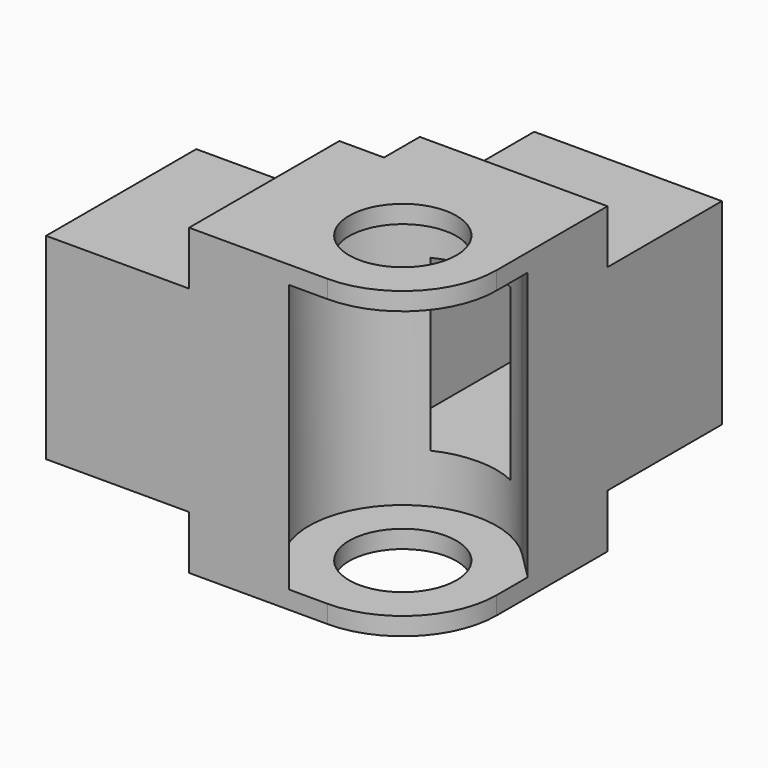
from build123d import *

# Parameters (mm, degrees)
F0_W      = 42
F0_H      = 42
F1_DEPTH  = 22
F2_W      = 21
F2_H      = 21
F3_DEPTH  = 22
F4_R      = 6
F5_DEPTH  = 22
F6_R      = 4
F7_DEPTH  = 18
F8_W      = 19
F8_H      = 19
F9_DEPTH  = 22
F10_W     = 21
F10_H     = 21
F10_R     = 6
F10_H_2   = 5
F10_W_2   = 5
F11_DEPTH = 6
F12_W     = 21
F12_H     = 21
F12_R     = 6
F12_W_2   = 5
F12_H_2   = 5
F13_DEPTH = 6
F15_R     = 6
F16_DEPTH = 15
F18_DEPTH = 34.001


with BuildPart() as f1:
    # F0 (on Top) → F1 (new body)
    with BuildSketch(Plane.XY):
        Rectangle(F0_W, F0_H)
    extrude(amount=F1_DEPTH)

    # F2 (on face) → F3 (cut, through all)
    with BuildSketch(Plane.XY.offset(22)):
        with Locations((-10.5, 10.5)):
            Rectangle(F2_W, F2_H)
    extrude(amount=-F3_DEPTH, mode=Mode.SUBTRACT)

    # F4 (on face) → F5 (cut, through all)
    with BuildSketch(Plane.XY.offset(22)):
        with Locations((10.5, -10.5)):
            Circle(F4_R)
    extrude(amount=-F5_DEPTH, mode=Mode.SUBTRACT)

    # F6 (on face) → F7 (cut)
    with BuildSketch(Plane(origin=(-21, 0, 0), x_dir=(0, -1, 0), z_dir=(-1, 0, 0))):
        with Locations((10.5, 11)):
            Circle(F6_R)
    extrude(amount=-F7_DEPTH, mode=Mode.SUBTRACT)

    # F8 (on face) → F9 (cut)
    with BuildSketch(Plane(origin=(0, 21, 0), x_dir=(-1, 0, 0), z_dir=(0, 1, 0))):
        with Locations((-10.5, 11)):
            Rectangle(F8_W, F8_H)
    extrude(amount=-F9_DEPTH, mode=Mode.SUBTRACT)

    # F10 (on face) → F11 (join)
    with BuildSketch(Plane.XY.offset(22)):
        with Locations((10.5, -10.5)):
            Rectangle(F10_W, F10_H)
        with Locations((10.5, -10.5)):
            Circle(F10_R, mode=Mode.SUBTRACT)
        with Locations((10.5, 2.5)):
            Rectangle(F10_W, F10_H_2)
        with Locations((-2.5, -10.5)):
            Rectangle(F10_W_2, F10_H)
        with Locations((10.5, -10.5)):
            Rectangle(F10_W, F10_H)
        with Locations((10.5, -10.5)):
            Circle(F10_R, mode=Mode.SUBTRACT)
    extrude(amount=F11_DEPTH)

    # F12 (on face) → F13 (join)
    with BuildSketch(Plane(origin=(0, 0, 0), x_dir=(1, 0, 0), z_dir=(0, 0, -1))):
        with Locations((10.5, 10.5)):
            Rectangle(F12_W, F12_H)
        with Locations((10.5, 10.5)):
            Circle(F12_R, mode=Mode.SUBTRACT)
        with Locations((-2.5, 10.5)):
            Rectangle(F12_W_2, F12_H)
        with Locations((10.5, -2.5)):
            Rectangle(F12_W, F12_H_2)
    extrude(amount=F13_DEPTH)

    # F15 (on offset) → F16 (cut, symmetric)
    with BuildSketch(Plane.XY.offset(11)):
        with BuildLine():
            Line((21, -21), (21, -10.5))
            ThreePointArc((21, -10.5), (17.9246212025, -17.9246212025), (10.5, -21))
            Line((10.5, -21), (21, -21))
        make_face()
        with BuildLine():
            Line((6.1503787975, -21), (10.5, -21))
            ThreePointArc((10.5, -21), (6.4818239602, -20.2007350914), (3.0753787975, -17.9246212025))
            Line((3.0753787975, -17.9246212025), (6.1503787975, -21))
        make_face()
        with BuildLine():
            ThreePointArc((17.9246212025, -3.0753787975), (20.2007350914, -6.4818239602), (21, -10.5))
            Line((21, -10.5), (21, -6.1503787975))
            Line((21, -6.1503787975), (17.9246212025, -3.0753787975))
        make_face()
        with BuildLine():
            ThreePointArc((10.5, -21), (17.9246212025, -17.9246212025), (21, -10.5))
            ThreePointArc((21, -10.5), (20.2007350914, -6.4818239602), (17.9246212025, -3.0753787975))
            ThreePointArc((17.9246212025, -3.0753787975), (3.0753787975, -3.0753787975), (3.0753787975, -17.9246212025))
            ThreePointArc((3.0753787975, -17.9246212025), (6.4818239602, -20.2007350914), (10.5, -21))
        make_face()
        with Locations((10.5, -10.5)):
            Circle(F15_R, mode=Mode.SUBTRACT)
    extrude(amount=F16_DEPTH, both=True, mode=Mode.SUBTRACT)

    # F17 (on face) → F18 (cut, through all)
    with BuildSketch(Plane.XY.offset(28)):
        with BuildLine():
            Line((21, -21), (21, -10.5))
            ThreePointArc((21, -10.5), (17.9246212025, -17.9246212025), (10.5, -21))
            Line((10.5, -21), (21, -21))
        make_face()
    extrude(amount=-F18_DEPTH, mode=Mode.SUBTRACT)


solid = f1.part
